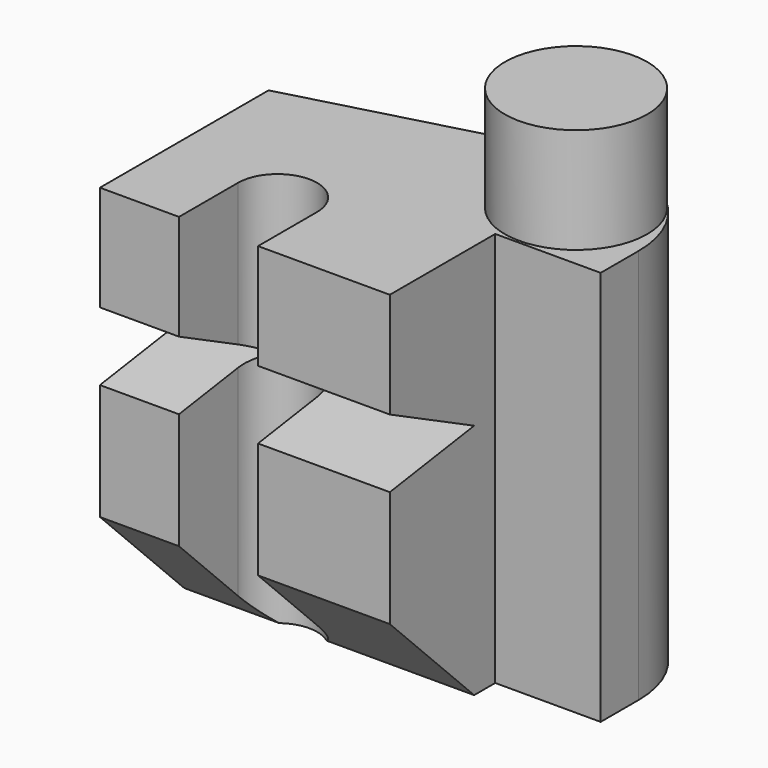
from build123d import *

# Parameters (mm, degrees)
F1_DEPTH = 75
F3_DEPTH = 60
F4_R     = 13.5
F5_DEPTH = 20


with BuildPart() as f1:
    # F0 (on Top) → F1 (new body)
    with BuildSketch(Plane.XY):
        with BuildLine():
            Line((0, 40), (0, 0))
            Line((0, 0), (15, 0))
            Line((15, 0), (15, 14))
            ThreePointArc((15, 14), (22.5, 21.5), (30, 14))
            Line((30, 14), (30, 0))
            Line((30, 0), (55, 0))
            Line((55, 0), (55, 25))
            Line((55, 25), (75, 25))
            Line((75, 25), (75, 34.031682))
            ThreePointArc((75, 34.031682), (67.175229, 49.898749), (49.823619, 53.350199))
            Line((49.823619, 53.350199), (0, 40))
        make_face()
    extrude(amount=F1_DEPTH)

    # F2 (on face) → F3 (cut)
    with BuildSketch(Plane.YZ.offset(55)):
        Polygon((20, 45), (0, 55), (0, 42.03419), align=None)
        Polygon((20, 0), (0, 20), (0, 0), align=None)
    extrude(amount=-F3_DEPTH, mode=Mode.SUBTRACT)

    # F4 (on face) → F5 (join)
    with BuildSketch(Plane.XY.offset(75)):
        with Locations((59.132375, 39)):
            Circle(F4_R)
    extrude(amount=F5_DEPTH)


solid = f1.part
